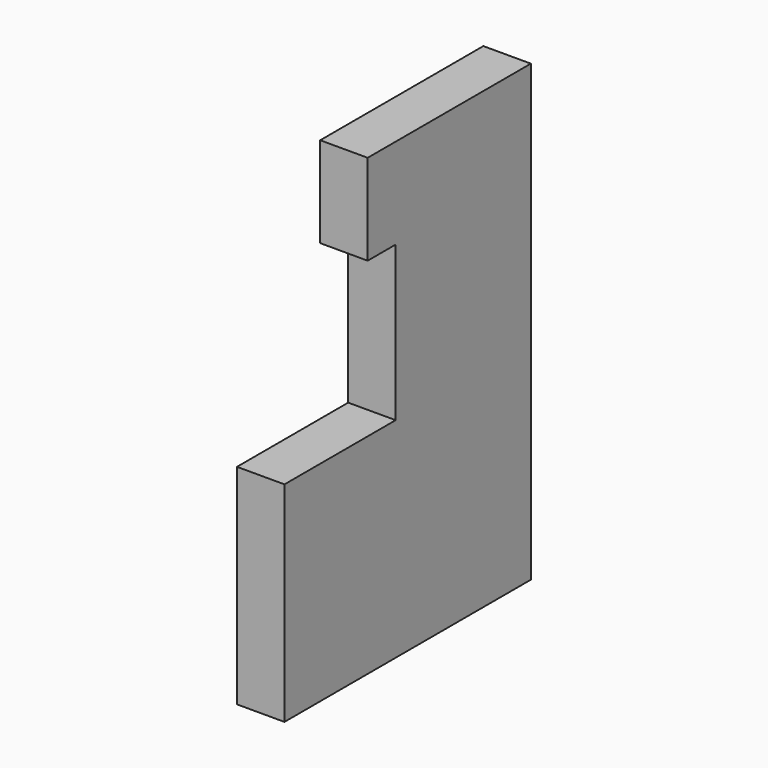
from build123d import *

# Parameters (mm, degrees)
F0_W     = 90.36221
F0_H     = 82.686372
F1_DEPTH = 25.4


with BuildPart() as f1:
    # F0 (on Right) → F1 (new body)
    with BuildSketch(Plane.YZ):
        Polygon((-52.519564, 50.011896), (-126.86266, 50.011896), (-126.86266, -61.843082), (37.96934, -61.843082), (37.96934, 50.011896), (37.842646, 50.011896), align=None)
        with Locations((-7.338459, 91.355082)):
            Rectangle(F0_W, F0_H)
        Polygon((-71.227163, 132.698268), (-52.519564, 132.698268), (37.842646, 132.698268), (37.842646, 181.157961), (-71.227163, 181.157961), align=None)
    extrude(amount=F1_DEPTH)


solid = f1.part
